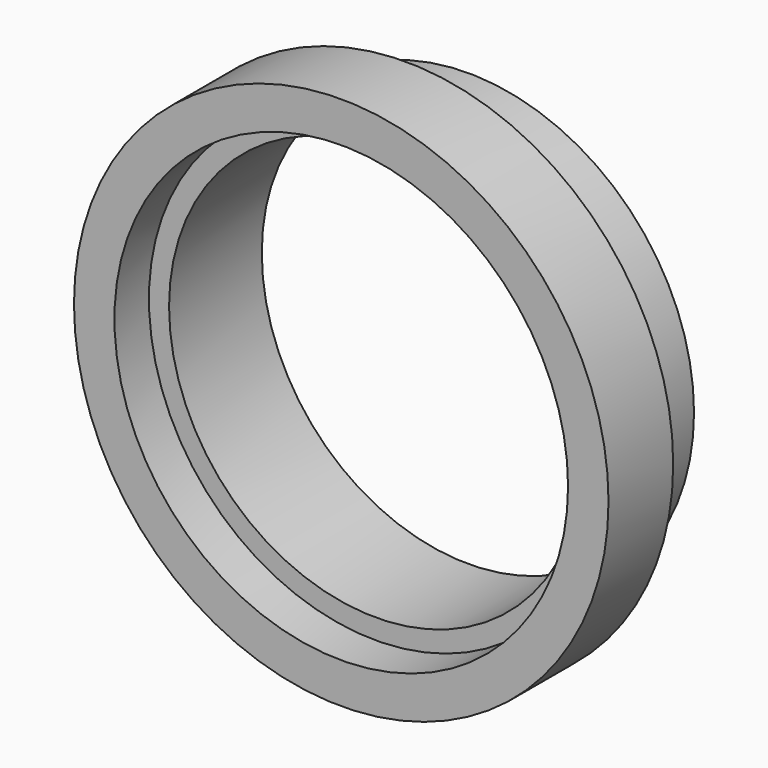
from build123d import *

# Parameters (mm, degrees)
F0_R     = 98.686434
F0_R_2   = 83.686432
F1_DEPTH = 16
F0_R_3   = 76.686434
F2_DEPTH = 14
F3_DEPTH = 43
F4_R     = 84.150337
F4_R_2   = 83.686432
F5_DEPTH = 16
F6_R     = 99.162904
F6_R_2   = 98.686434
F7_DEPTH = 30


with BuildPart() as f1:
    # F0 (on Front) → F1 (new body)
    with BuildSketch(Plane.XZ):
        Circle(F0_R)
        Circle(F0_R_2, mode=Mode.SUBTRACT)
    extrude(amount=F1_DEPTH)

    # F0 (on Front) → F2 (join)
    with BuildSketch(Plane.XZ):
        Circle(F0_R_2)
        Circle(F0_R_3, mode=Mode.SUBTRACT)
        Circle(F0_R)
        Circle(F0_R_2, mode=Mode.SUBTRACT)
    extrude(amount=-F2_DEPTH)

    # F0 (on Front) → F3 (join)
    with BuildSketch(Plane.XZ):
        Circle(F0_R_2)
        Circle(F0_R_3, mode=Mode.SUBTRACT)
    extrude(amount=-F3_DEPTH)

    # F4 (on face) → F5 (cut)
    with BuildSketch(Plane.XZ.offset(16)):
        Circle(F4_R)
        Circle(F4_R_2, mode=Mode.SUBTRACT)
    extrude(amount=-F5_DEPTH, mode=Mode.SUBTRACT)

    # F6 (on face) → F7 (join)
    with BuildSketch(Plane.XZ.offset(16)):
        Circle(F6_R)
        Circle(F6_R_2, mode=Mode.SUBTRACT)
    extrude(amount=-F7_DEPTH)


solid = f1.part
